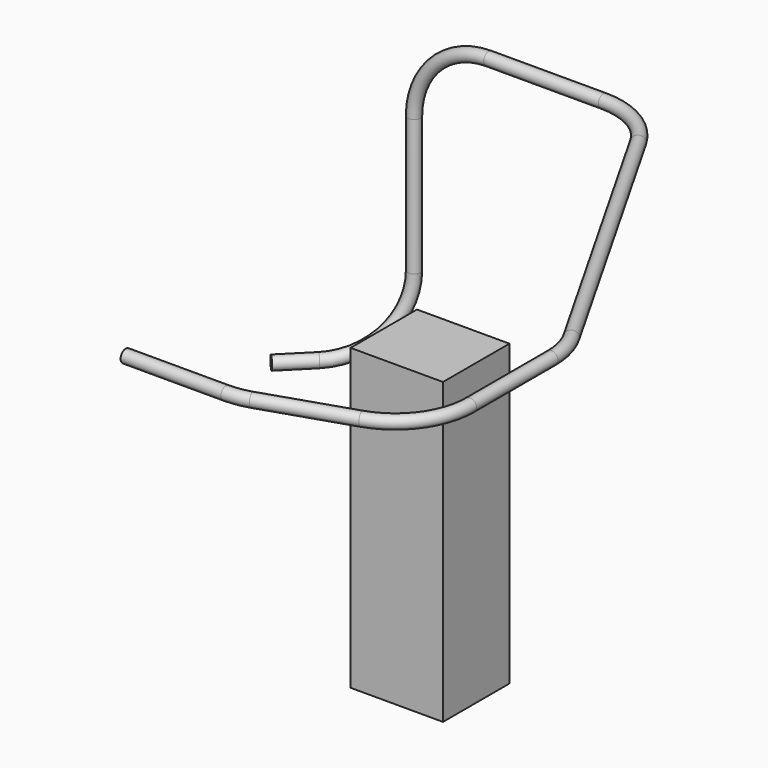
from build123d import *

# Parameters (mm, degrees)
F10_W     = 62.74308
F10_H     = 56.39308
F11_DEPTH = 203.2
F17_R     = 4.33705
F28_T     = -0.762


with BuildPart() as f11:
    # F10 (on line) → F11 (new body)
    with BuildSketch(Plane.XY.offset(772.2362)):
        with Locations((434.96992, -0.23368)):
            Rectangle(F10_W, F10_H)
    extrude(amount=F11_DEPTH)


with BuildPart() as f27:
    # F27: sweep along a path in F26, F20, F22, F24
    with BuildLine(Plane(origin=(0, 0, 968.64424), x_dir=(1, 0, 0), z_dir=(0, 0, -1))) as f27_path:
        Line((308.08422, 99.89312), (376.1943325248, 99.89312))
        ThreePointArc((376.1943325248, 99.89312), (384.1835490706, 99.2609624789), (391.9739292649, 97.3802231096))
        Line((391.9739292649, 97.3802231096), (450.8638167401, 78.135774456))
    with BuildLine(Plane.XY.offset(968.64424)) as f27_path_2:
        ThreePointArc((450.8638167401, -78.135774456), (476.2074708102, -59.6734637648), (485.88422, -29.8486713464))
        Line((485.88422, -29.8486713464), (485.88422, 39.2837373177))
        ThreePointArc((485.88422, 39.2837373177), (484.1909398617, 52.2902766122), (479.2239812433, 64.4297405267))
        Line((479.2239812433, 64.4297405267), (367.0541186532, 261.3258799354))
        ThreePointArc((367.0541186532, 261.3258799354), (348.4410398911, 280.1005834774), (322.91435741, 286.9798767264))
    with BuildLine(Plane(origin=(0, 286.9798767264, 0), x_dir=(-1, 0, 0), z_dir=(0, 1, 0))) as f27_path_3:
        Line((-322.91435741, 968.64424), (-245.1587767264, 968.64424))
        ThreePointArc((-245.1587767264, 968.64424), (-209.2377522421, 953.7652644843), (-194.3587767264, 917.84424))
    with BuildLine(Plane(origin=(-46.31055, 46.31055, 0), x_dir=(-0.7071067812, -0.7071067812, 0), z_dir=(-0.7071067812, 0.7071067812, 0))) as f27_path_4:
        Line((-340.3578259037, 917.84424), (-340.3578259037, 825.52032))
        ThreePointArc((-340.3578259037, 825.52032), (-325.478850388, 789.5992955157), (-289.5578259037, 774.72032))
        Line((-289.5578259037, 774.72032), (-264.1578259037, 774.72032))
    # F17 (on line) → F27 (sweep)
    with BuildSketch(Plane.YZ.offset(308.08422)):
        with Locations((-99.89312, 968.64424)):
            Circle(F17_R)
    sweep(path=f27_path.line + f27_path_2.line + f27_path_3.line + f27_path_4.line)

    # F28
    f28_openings = [f27.faces().sort_by_distance(p)[0] for p in [
        (140.47724, 233.09834, 774.72032),
    ]]
    offset(amount=F28_T, openings=f28_openings)


solid = Compound([f11.part, f27.part])
